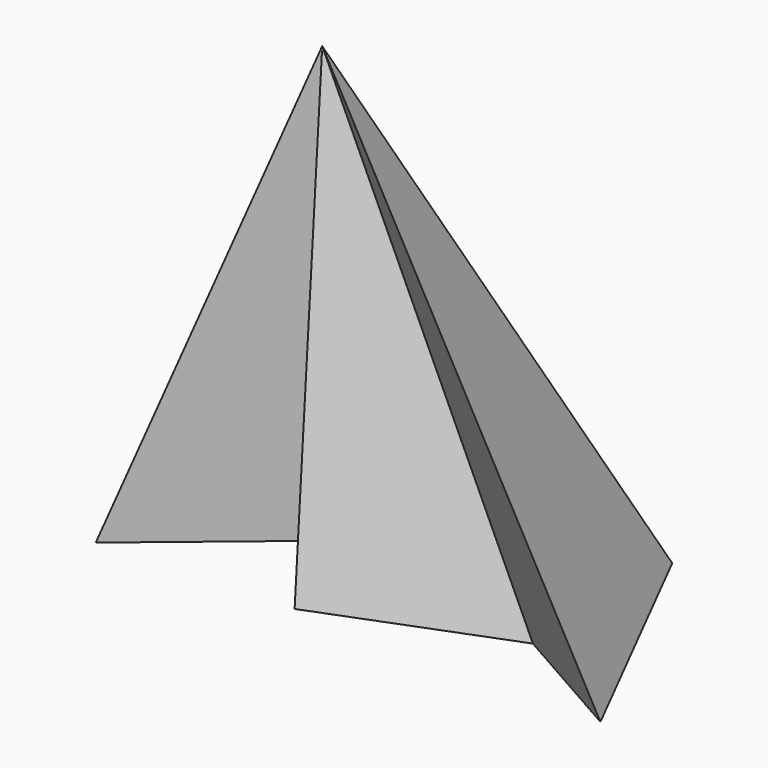
from build123d import *


with BuildPart() as f3:
    # F0 (on Top) → F3 section 0
    with BuildSketch(Plane.XY, mode=Mode.PRIVATE) as f3_s0:
        Polygon((-58.540445, 18.186722), (-57.854831, -17.46534), (-25.596111, 9.273707), (-16.032221, -15.40849), (23.73354, 0), (50.815396, -15.40849), (23.73354, 38.069602), (-10.20448, 9.273707), (-18.774686, 38.069602), align=None)
    loft([f3_s0.sketch, Vertex(-22.32356, 0, 100)])


solid = f3.part
